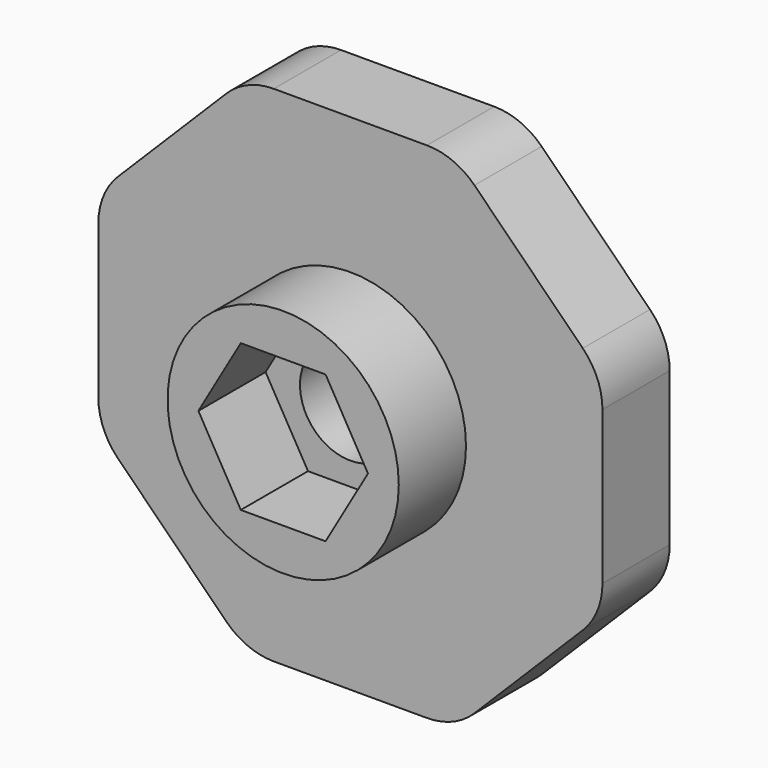
from build123d import *

# Parameters (mm, degrees)
F0_R     = 3.81
F1_DEPTH = 6.35
F2_R     = 8.7376
F3_DEPTH = 6.35
F4_R     = 5.08


with BuildPart() as f1:
    # F0 (on Front) → F1 (new body)
    with BuildSketch(Plane.XZ):
        Polygon((19.05, 7.890768), (7.890768, 19.05), (-7.890768, 19.05), (-19.05, 7.890768), (-19.05, -7.890768), (-7.890768, -19.05), (7.890768, -19.05), (19.05, -7.890768), align=None)
        Circle(F0_R, mode=Mode.SUBTRACT)
    extrude(amount=F1_DEPTH)

    # F2 (on face) → F3 (join)
    with BuildSketch(Plane.XZ.offset(6.35)):
        Circle(F2_R)
        Polygon((-3.204236, -5.5499), (-6.408473, 0), (-3.204236, 5.5499), (3.204236, 5.5499), (6.408473, 0), (3.204236, -5.5499), align=None, mode=Mode.SUBTRACT)
    extrude(amount=F3_DEPTH)

    # F4
    f4_edges = [f1.edges().sort_by_distance(p)[0] for p in [
        (7.890768, -3.175, 19.05),
        (19.05, -3.175, 7.890768),
        (19.05, -3.175, -7.890768),
        (7.890768, -3.175, -19.05),
        (-7.890768, -3.175, -19.05),
        (-19.05, -3.175, -7.890768),
        (-19.05, -3.175, 7.890768),
        (-7.890768, -3.175, 19.05),
    ]]
    fillet(f4_edges, radius=F4_R)


solid = f1.part
